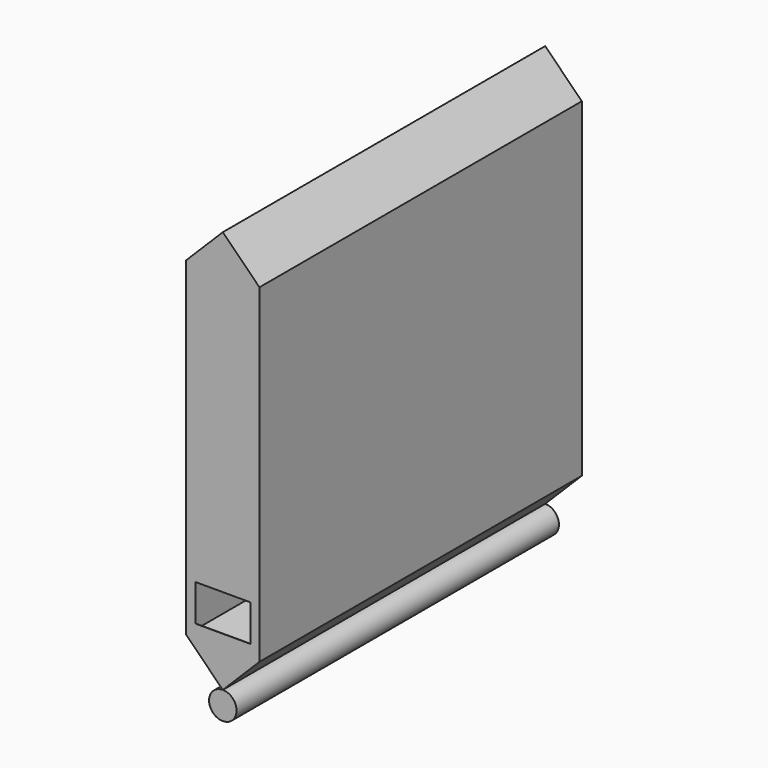
from build123d import *

# Parameters (mm, degrees)
F0_W     = 19.05
F0_H     = 12.7
F1_DEPTH = 139.7
F2_R     = 4.7625
F3_DEPTH = 139.7
F4_T     = -0.0889
F4_2_T   = -0.0889
F5_DEPTH = 0.0889


with BuildPart() as f1:
    # F0 (on Front) → F1 (new body)
    with BuildSketch(Plane.XZ):
        Polygon((-12.7, 12.7), (0, 0), (12.7, 12.7), (12.7, 127), (0, 139.7), (-12.7, 127), align=None)
        with Locations((0, 23.495)):
            Rectangle(F0_W, F0_H, mode=Mode.SUBTRACT)
        with Locations((0, 23.495)):
            Rectangle(F0_W, F0_H)
    extrude(amount=-F1_DEPTH)

    # F4
    f4_openings = [f1.faces().sort_by_distance(p)[0] for p in [
        (0, 139.7, 69.85),
    ]]
    offset(amount=F4_T, openings=f4_openings)

    # F0 (on Front) → F5 (cut, through all)
    with BuildSketch(Plane.XZ):
        with Locations((0, 23.495)):
            Rectangle(F0_W, F0_H)
    extrude(amount=-F5_DEPTH, mode=Mode.SUBTRACT)


with BuildPart() as f3:
    # F2 (on Front) → F3 (new body, through all)
    with BuildSketch(Plane.XZ):
        with Locations((0, -4.7625)):
            Circle(F2_R)
    extrude(amount=-F3_DEPTH)

    # F4#2
    f4_2_openings = [f3.faces().sort_by_distance(p)[0] for p in [
        (0, 139.7, -4.7625),
    ]]
    offset(amount=F4_2_T, openings=f4_2_openings)


solid = Compound([f1.part, f3.part])
